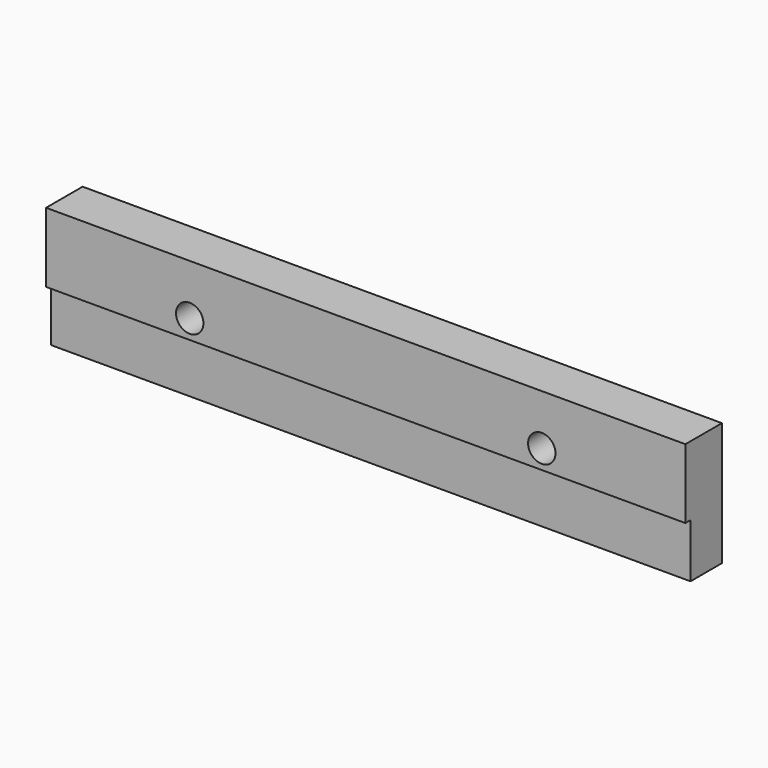
from build123d import *

# Parameters (mm, degrees)
F1_DEPTH       = 5
F0_W           = 70
F0_H           = 5.9
F2_DEPTH       = 4.3
F3_D           = 3
F3_CSINK_D     = 6.72
F3_CSINK_ANGLE = 90


with BuildPart() as f1:
    # F0 (on Front) → F1 (new body)
    with BuildSketch(Plane.XZ):
        Polygon((-34.6234844969, 5.539), (-34.6234844969, 0), (-34.6234844969, -2.092), (35.3765155031, -2.092), (35.3765155031, 0), (35.3765155031, 5.511366824), align=None)
    extrude(amount=F1_DEPTH)

    # F0 (on Front) → F2 (join)
    with BuildSketch(Plane.XZ):
        with Locations((0.3765155031, -5.042)):
            Rectangle(F0_W, F0_H)
    extrude(amount=F2_DEPTH)

    # F3 (through all)
    with Locations(Plane(origin=(0, 0, 0), x_dir=(1, 0, 0), z_dir=(0, 1, 0))):
        with Locations((19.6505155031, 0), (-18.8974844969, 0)):
            CounterSinkHole(F3_D / 2, F3_CSINK_D / 2, counter_sink_angle=F3_CSINK_ANGLE)


solid = f1.part
